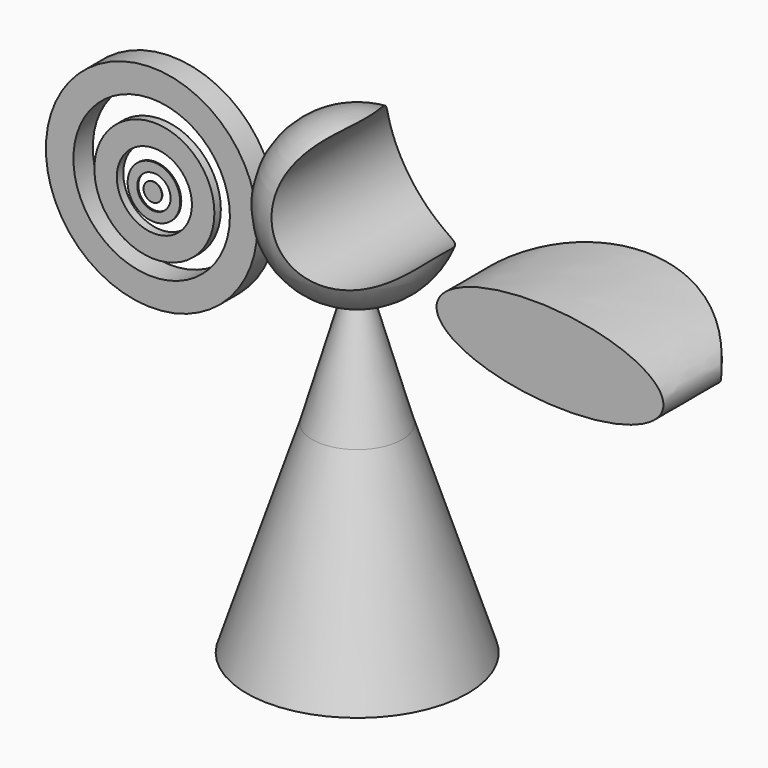
from build123d import *

# Parameters (mm, degrees)
F0_R          = 10
F1_DEPTH      = 106
F1_TAPER      = 16
F1_DEPTH_BACK = 45
F1_TAPER_BACK = -18
F4_R          = 13.7114960036
F5_DEPTH      = 25
F5_DEPTH_BACK = 31.1
F9_DEPTH      = 89.7
F10_R         = 23.5616078349
F10_R_2       = 17.4291794395
F11_DEPTH     = 5.4
F12_R         = 13.3681608063
F12_R_2       = 8.3670673729
F13_DEPTH     = 1.8
F14_R         = 5.8543755039
F14_R_2       = 3.7149188708
F15_DEPTH     = 0.3
F16_R         = 2.0570171847
F17_DEPTH     = 0.1


with BuildPart() as f1:
    # F0 (on Top) → F1 (new body, two sides)
    with BuildSketch(Plane.XY) as f1_sk:
        Circle(F0_R)
    extrude(amount=F1_DEPTH, taper=F1_TAPER)
    extrude(f1_sk.sketch, amount=-F1_DEPTH_BACK, taper=F1_TAPER_BACK)

    # F2 (on Front) → F3 (revolve)
    with BuildSketch(Plane.XZ):
        with BuildLine():
            Line((0, 24.8863659799), (0, 60.34091115))
            ThreePointArc((0, 60.34091115), (-18.4179523353, 42.6136385649), (0, 24.8863659799))
        make_face()
    revolve(axis=Axis((0, 0, 42.6136385649), (0, 0, -1)))

    # F4 (on Front) → F5 (cut, two sides)
    with BuildSketch(Plane.XZ) as f5_sk:
        with Locations((8.2989698276, 48.2603125274)):
            Circle(F4_R)
    extrude(amount=-F5_DEPTH, mode=Mode.SUBTRACT)
    extrude(f5_sk.sketch, amount=F5_DEPTH_BACK, mode=Mode.SUBTRACT)


with BuildPart() as f7:
    # F6 (on Front) → F7 (revolve)
    with BuildSketch(Plane.XZ):
        with BuildLine():
            Line((44.7422713041, 26.6108270735), (44.7422713041, 55.1159791648))
            ThreePointArc((44.7422713041, 55.1159791648), (16.2371192127, 26.6108270735), (44.7422713041, -1.8943250179))
            Line((44.7422713041, -1.8943250179), (44.7422713041, 26.6108270735))
        make_face()
    revolve(axis=Axis((44.7422713041, 0, 12.3582510278), (0, 0, -1)))

    # F8 (on Front) → F9 (intersect)
    with BuildSketch(Plane.XZ):
        with BuildLine():
            add(Edge.make_bspline(
                [(68.1958794594, 25.528350845), (69.2518815886, 41.9550584393), (30.8372814452, 36.1772705683), (-7.5773186982, 30.3994826972), (29.781279316, 19.750562974), (67.1398773302, 9.1016432507), (68.1958794594, 25.528350845)],
                knots=[0, 0, 0, 2.0943951024, 2.0943951024, 4.1887902048, 4.1887902048, 6.2831853072, 6.2831853072, 6.2831853072], degree=2, weights=[1, 0.5, 1, 0.5, 1, 0.5, 1]))
        make_face()
    extrude(amount=-F9_DEPTH, mode=Mode.INTERSECT)


with BuildPart() as f11:
    # F10 (on Front) → F11 (new body)
    with BuildSketch(Plane.XZ):
        with Locations((-45.7880795002, 31.3015468419)):
            Circle(F10_R)
        with Locations((-45.7880795002, 31.3015468419)):
            Circle(F10_R_2, mode=Mode.SUBTRACT)
    extrude(amount=-F11_DEPTH)


with BuildPart() as f13:
    # F12 (on Front) → F13 (new body)
    with BuildSketch(Plane.XZ):
        with Locations((-45.183070004, 30.829558149)):
            Circle(F12_R)
        with Locations((-45.183070004, 30.829558149)):
            Circle(F12_R_2, mode=Mode.SUBTRACT)
    extrude(amount=-F13_DEPTH)


with BuildPart() as f15:
    # F14 (on Front) → F15 (new body)
    with BuildSketch(Plane.XZ):
        with Locations((-45.2835075557, 30.5798985064)):
            Circle(F14_R)
        with Locations((-45.2835075557, 30.5798985064)):
            Circle(F14_R_2, mode=Mode.SUBTRACT)
    extrude(amount=-F15_DEPTH)


with BuildPart() as f17:
    # F16 (on Front) → F17 (new body)
    with BuildSketch(Plane.XZ):
        with Locations((-45.4639196396, 30.5798985064)):
            Circle(F16_R)
    extrude(amount=F17_DEPTH)


solid = Compound([f1.part, f7.part, f11.part, f13.part, f15.part, f17.part])
